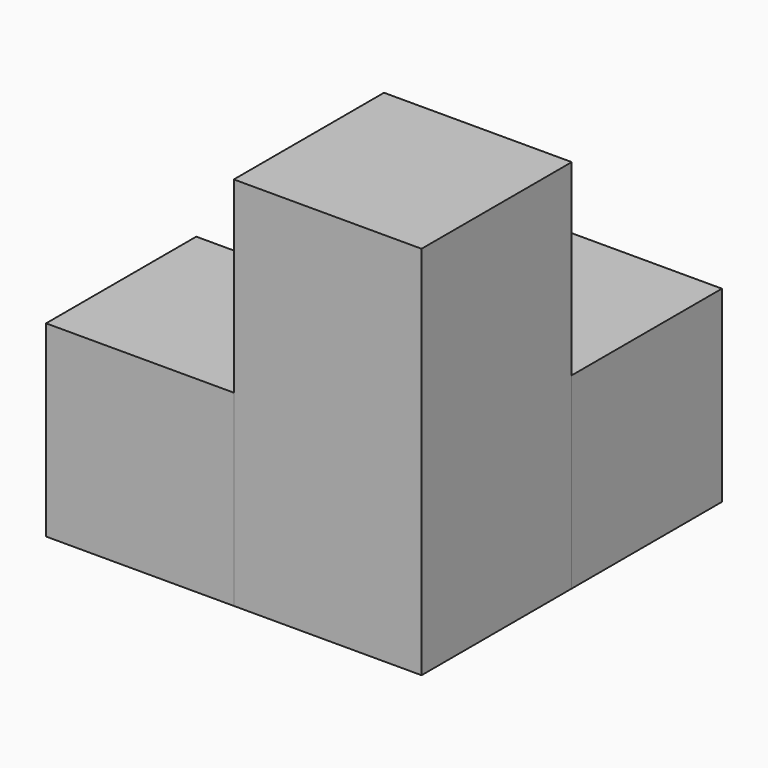
from build123d import *

# Parameters (mm, degrees)
BOX_W        = 10
BOX_H        = 10
BOX_DEPTH    = 10
BOX001_W     = 10
BOX001_H     = 10
BOX001_DEPTH = 10
BOX002_W     = 10
BOX002_H     = 10
BOX002_DEPTH = 20


with BuildPart() as cub:
    # Box → Box (new body)
    with BuildSketch(Plane(origin=(-10, 0, 0), x_dir=(1, 0, 0), z_dir=(0, 0, 1))):
        with Locations((5, 5)):
            Rectangle(BOX_W, BOX_H)
    extrude(amount=BOX_DEPTH)


with BuildPart() as cub001:
    # Box001 → Box001 (new body)
    with BuildSketch(Plane(origin=(0, 10, 0), x_dir=(1, 0, 0), z_dir=(0, 0, 1))):
        with Locations((5, 5)):
            Rectangle(BOX001_W, BOX001_H)
    extrude(amount=BOX001_DEPTH)


with BuildPart() as cub002:
    # Box002 → Box002 (new body)
    with BuildSketch(Plane.XY):
        with Locations((5, 5)):
            Rectangle(BOX002_W, BOX002_H)
    extrude(amount=BOX002_DEPTH)


solid = Compound([cub.part, cub001.part, cub002.part])
